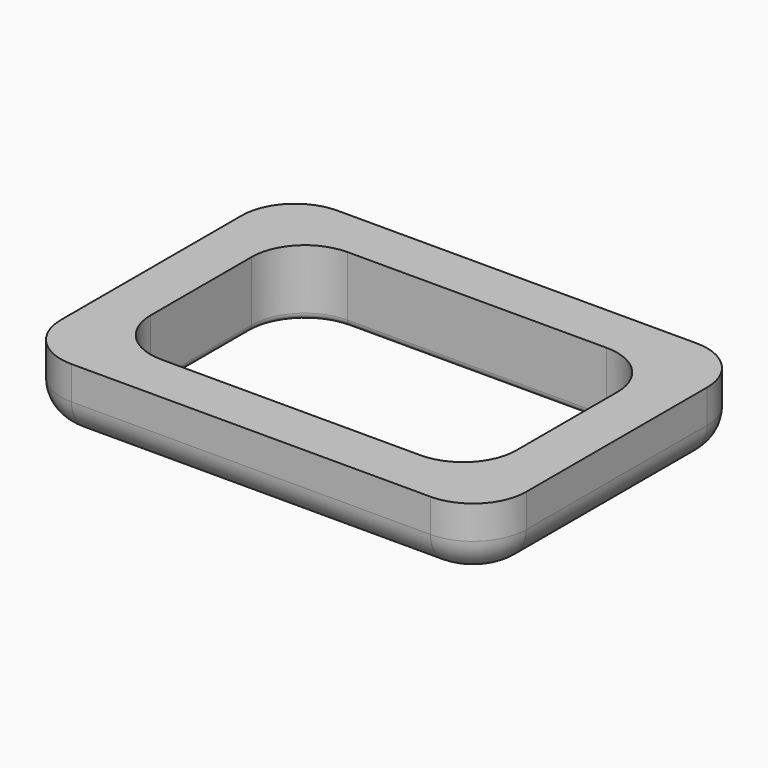
from build123d import *

# Parameters (mm, degrees)
F1_DEPTH = 12.7
F2_R     = 6.35
F3_R     = 1.27


with BuildPart() as f1:
    # F0 (on Top) → F1 (new body)
    with BuildSketch(Plane.XY):
        with BuildLine():
            Line((34.29, 31.75), (-34.29, 31.75))
            ThreePointArc((-34.29, 31.75), (-41.474205, 28.774205), (-44.45, 21.59))
            Line((-44.45, 21.59), (-44.45, -21.59))
            ThreePointArc((-44.45, -21.59), (-41.474205, -28.774205), (-34.29, -31.75))
            Line((-34.29, -31.75), (34.29, -31.75))
            ThreePointArc((34.29, -31.75), (41.474205, -28.774205), (44.45, -21.59))
            Line((44.45, -21.59), (44.45, 21.59))
            ThreePointArc((44.45, 21.59), (41.474205, 28.774205), (34.29, 31.75))
        make_face()
        with BuildLine():
            ThreePointArc((34.925, -12.065), (31.949205, -19.249205), (24.765, -22.225))
            Line((24.765, -22.225), (-24.765, -22.225))
            ThreePointArc((-24.765, -22.225), (-31.949205, -19.249205), (-34.925, -12.065))
            Line((-34.925, -12.065), (-34.925, 12.065))
            ThreePointArc((-34.925, 12.065), (-31.949205, 19.249205), (-24.765, 22.225))
            Line((-24.765, 22.225), (24.765, 22.225))
            ThreePointArc((24.765, 22.225), (31.949205, 19.249205), (34.925, 12.065))
            Line((34.925, 12.065), (34.925, -12.065))
        make_face(mode=Mode.SUBTRACT)
    extrude(amount=F1_DEPTH)

    # F2
    f2_edges = [f1.edges().sort_by_distance(p)[0] for p in [
        (-41.474205, -28.774205, 0),
    ]]
    fillet(f2_edges, radius=F2_R)

    # F3
    f3_edges = [f1.edges().sort_by_distance(p)[0] for p in [
        (0, -22.225, 0),
        (-31.949205, -19.249205, 0),
        (-34.925, 0, 0),
        (-31.949205, 19.249205, 0),
        (0, 22.225, 0),
        (31.949205, 19.249205, 0),
        (34.925, 0, 0),
        (31.949205, -19.249205, 0),
    ]]
    fillet(f3_edges, radius=F3_R)


solid = f1.part
